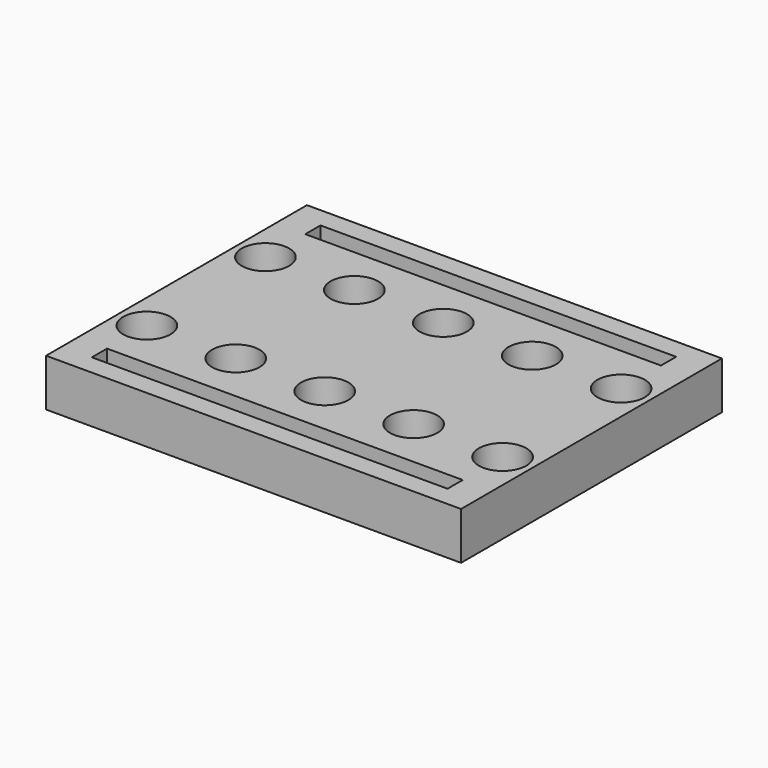
from build123d import *

# Parameters (mm, degrees)
F0_W     = 70
F0_H     = 55
F0_R     = 1.55
F1_DEPTH = 8
F2_R     = 4
F3_DEPTH = 5
F4_W     = 60
F4_H     = 1.6
F5_DEPTH = 5
F6_W     = 60
F6_H     = 2.5
F7_DEPTH = 3


with BuildPart() as f1:
    # F0 (on Top) → F1 (new body)
    with BuildSketch(Plane.XY):
        Rectangle(F0_W, F0_H)
        with Locations((-30, -12.5)):
            Circle(F0_R, mode=Mode.SUBTRACT)
        with Locations((-15, -12.5)):
            Circle(F0_R, mode=Mode.SUBTRACT)
        with Locations((0, -12.5)):
            Circle(F0_R, mode=Mode.SUBTRACT)
        with Locations((15, -12.5)):
            Circle(F0_R, mode=Mode.SUBTRACT)
        with Locations((30, -12.5)):
            Circle(F0_R, mode=Mode.SUBTRACT)
        with Locations((-30, 12.5)):
            Circle(F0_R, mode=Mode.SUBTRACT)
        with Locations((-15, 12.5)):
            Circle(F0_R, mode=Mode.SUBTRACT)
        with Locations((0, 12.5)):
            Circle(F0_R, mode=Mode.SUBTRACT)
        with Locations((15, 12.5)):
            Circle(F0_R, mode=Mode.SUBTRACT)
        with Locations((30, 12.5)):
            Circle(F0_R, mode=Mode.SUBTRACT)
    extrude(amount=F1_DEPTH)

    # F2 (on face) → F3 (cut)
    with BuildSketch(Plane.XY.offset(8)):
        with Locations((0, -12.5)):
            Circle(F2_R)
        with Locations((0, 12.5)):
            Circle(F2_R)
        with Locations((15, -12.5)):
            Circle(F2_R)
        with Locations((30, -12.5)):
            Circle(F2_R)
        with Locations((-15, -12.5)):
            Circle(F2_R)
        with Locations((-30, -12.5)):
            Circle(F2_R)
        with Locations((15, 12.5)):
            Circle(F2_R)
        with Locations((30, 12.5)):
            Circle(F2_R)
        with Locations((-15, 12.5)):
            Circle(F2_R)
        with Locations((-30, 12.5)):
            Circle(F2_R)
    extrude(amount=-F3_DEPTH, mode=Mode.SUBTRACT)

    # F4 (on face) → F5 (cut)
    with BuildSketch(Plane.XY.offset(8)):
        with Locations((0, -21.7)):
            Rectangle(F4_W, F4_H)
        with Locations((0, -23.3)):
            Rectangle(F4_W, F4_H)
        with Locations((0, 21.7)):
            Rectangle(F4_W, F4_H)
        with Locations((0, 23.3)):
            Rectangle(F4_W, F4_H)
    extrude(amount=-F5_DEPTH, mode=Mode.SUBTRACT)

    # F6 (on face) → F7 (cut)
    with BuildSketch(Plane(origin=(0, 0, 0), x_dir=(1, 0, 0), z_dir=(0, 0, -1))):
        Polygon((-30, 22.5), (-30, 20), (30, 20), (30, 22.5), (30, 25), (-30, 25), align=None)
        Polygon((-30, 22.5), (-30, 20), (30, 20), (30, 22.5), (30, 25), (-30, 25), align=None)
        with Locations((0, -21.25)):
            Rectangle(F6_W, F6_H)
        with Locations((0, -23.75)):
            Rectangle(F6_W, F6_H)
    extrude(amount=-F7_DEPTH, mode=Mode.SUBTRACT)


solid = f1.part
